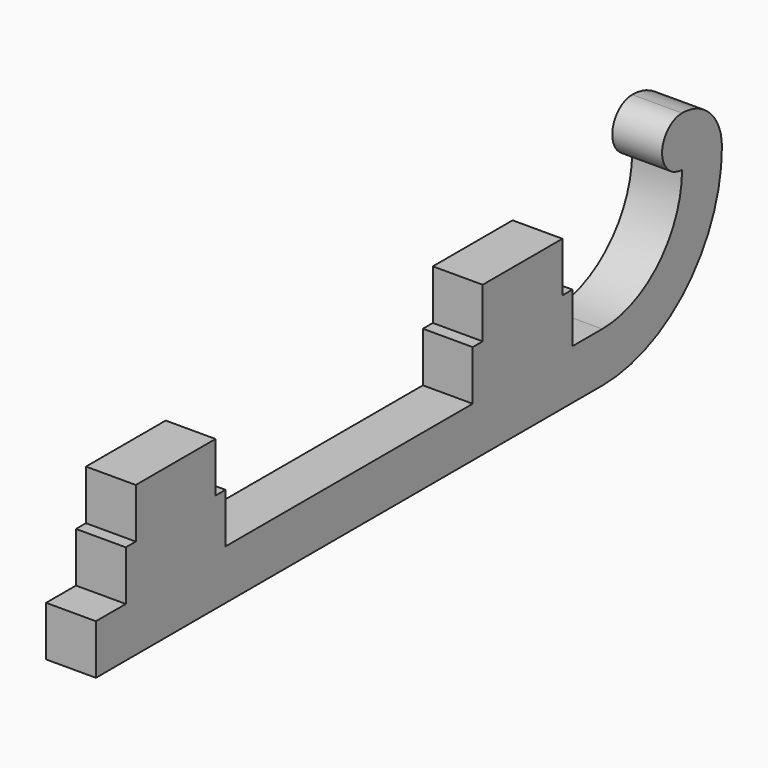
from build123d import *

# Parameters (mm, degrees)
F0_W     = 8
F0_H     = 4
F1_DEPTH = 4


with BuildPart() as f1:
    # F0 (on Right) → F1 (new body)
    with BuildSketch(Plane.YZ):
        with BuildLine():
            Line((0, 4), (0, 0))
            Line((0, 0), (50.8, 0))
            ThreePointArc((50.8, 0), (59.285281, 3.514719), (62.8, 12))
            ThreePointArc((62.8, 12), (61.628427, 14.828427), (58.8, 16))
            ThreePointArc((58.8, 16), (56.8, 14), (58.8, 12))
            ThreePointArc((58.8, 12), (56.456854, 6.343146), (50.8, 4))
            Line((50.8, 4), (47.8, 4))
            Line((47.8, 4), (37.8, 4))
            Line((37.8, 4), (13, 4))
            Line((13, 4), (3, 4))
            Line((3, 4), (0, 4))
        make_face()
        Polygon((3, 8), (3, 4), (13, 4), (13, 8), (12, 8), (4, 8), align=None)
        Polygon((37.8, 8), (37.8, 4), (47.8, 4), (47.8, 8), (46.8, 8), (38.8, 8), align=None)
        with Locations((8, 10)):
            Rectangle(F0_W, F0_H)
        with Locations((42.8, 10)):
            Rectangle(F0_W, F0_H)
    extrude(amount=F1_DEPTH)


solid = f1.part
